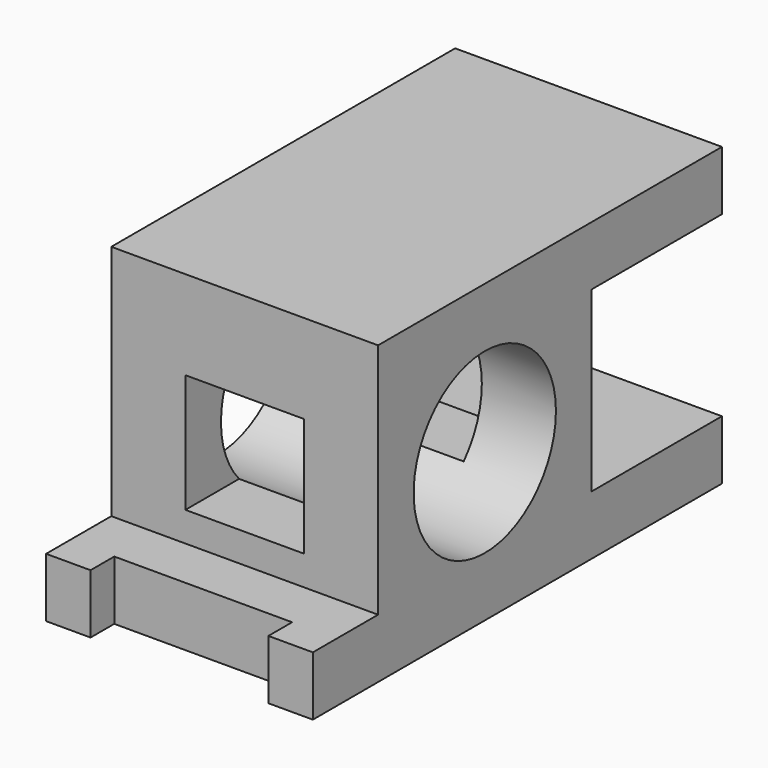
from build123d import *

# Parameters (mm, degrees)
F0_W      = 69
F0_H      = 40
F1_DEPTH  = 18
F2_W      = 11
F2_H      = 32
F3_DEPTH  = 36.001
F4_W      = 22
F4_H      = 24
F5_DEPTH  = 36.001
F6_R      = 12
F7_DEPTH  = 36.001
F8_W      = 16
F8_H      = 16
F9_DEPTH  = 58.001
F10_W     = 24
F10_H     = 4
F11_DEPTH = 8.001


with BuildPart() as f1:
    # F0 (on Right) → F1 (new body, symmetric)
    with BuildSketch(Plane.YZ):
        with Locations((-5.739541, 0)):
            Rectangle(F0_W, F0_H)
    extrude(amount=F1_DEPTH, both=True)

    # F2 (on face) → F3 (cut, through all)
    with BuildSketch(Plane.YZ.offset(18)):
        with Locations((-34.739541, 4)):
            Rectangle(F2_W, F2_H)
    extrude(amount=-F3_DEPTH, mode=Mode.SUBTRACT)

    # F4 (on face) → F5 (cut, through all)
    with BuildSketch(Plane.YZ.offset(18)):
        with Locations((17.760459, 0)):
            Rectangle(F4_W, F4_H)
    extrude(amount=-F5_DEPTH, mode=Mode.SUBTRACT)

    # F6 (on face) → F7 (cut, through all)
    with BuildSketch(Plane.YZ.offset(18)):
        with Locations((-11.239541, 0)):
            Circle(F6_R)
    extrude(amount=-F7_DEPTH, mode=Mode.SUBTRACT)

    # F8 (on face) → F9 (cut, through all)
    with BuildSketch(Plane.XZ.offset(29.239541)):
        Rectangle(F8_W, F8_H)
    extrude(amount=-F9_DEPTH, mode=Mode.SUBTRACT)

    # F10 (on face) → F11 (cut, through all)
    with BuildSketch(Plane.XY.offset(-12)):
        with Locations((0, -38.239541)):
            Rectangle(F10_W, F10_H)
    extrude(amount=-F11_DEPTH, mode=Mode.SUBTRACT)


solid = f1.part
